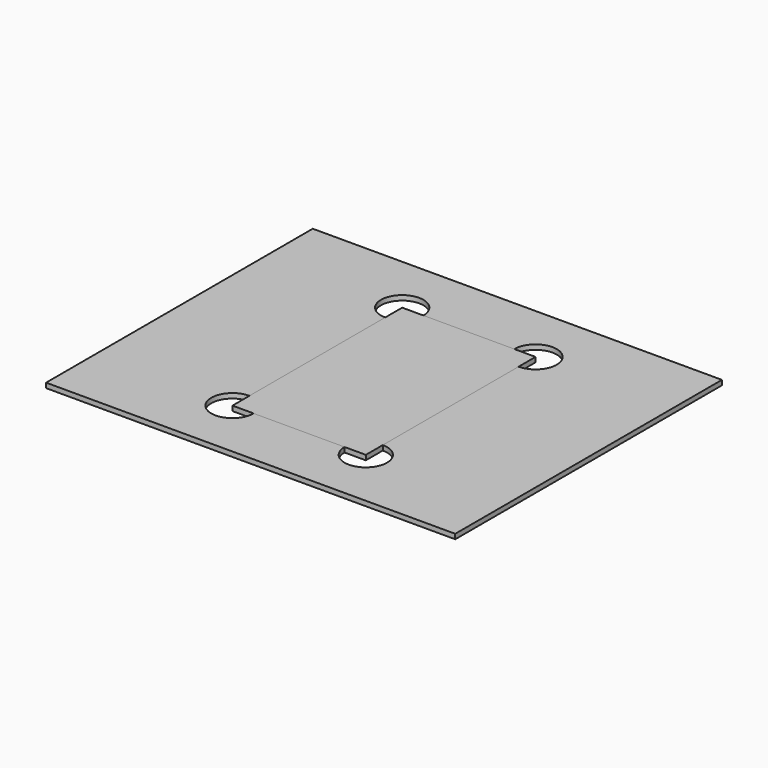
from build123d import *

# Parameters (mm, degrees)
F0_W     = 44
F0_H     = 70
F1_DEPTH = 1.6
F2_W     = 135
F2_H     = 110
F3_DEPTH = 1.6


with BuildPart() as f1:
    # F0 (on Top) → F1 (new body)
    with BuildSketch(Plane.XY):
        Rectangle(F0_W, F0_H)
    extrude(amount=F1_DEPTH)


with BuildPart() as f3:
    # F2 (on Top) → F3 (new body)
    with BuildSketch(Plane.XY):
        Rectangle(F2_W, F2_H)
        with BuildLine():
            Line((-22, -28), (-22, 28))
            ThreePointArc((-22, 28), (-26.949747, 39.949747), (-15, 35))
            Line((-15, 35), (15, 35))
            ThreePointArc((15, 35), (26.949747, 39.949747), (22, 28))
            Line((22, 28), (22, -28))
            ThreePointArc((22, -28), (26.949747, -39.949747), (15, -35))
            Line((15, -35), (-15, -35))
            ThreePointArc((-15, -35), (-26.949747, -39.949747), (-22, -28))
        make_face(mode=Mode.SUBTRACT)
    extrude(amount=F3_DEPTH)


solid = Compound([f1.part, f3.part])
